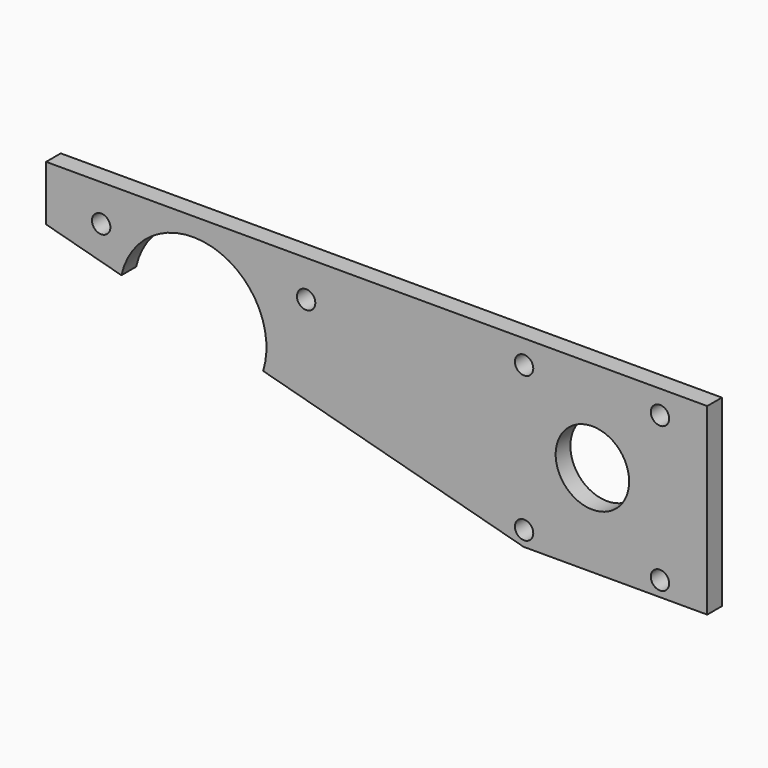
from build123d import *

# Parameters (mm, degrees)
F0_R     = 3.175
F0_R_2   = 12.7
F1_DEPTH = 6.35


with BuildPart() as f1:
    # F0 (on Front) → F1 (new body)
    with BuildSketch(Plane.XZ):
        with BuildLine():
            Line((177.8, 31.75), (-50.8, 31.75))
            Line((-50.8, 31.75), (-50.8, 12.7))
            Line((-50.8, 12.7), (-24.754961, 5.687874))
            ThreePointArc((-24.754961, 5.687874), (6.603326, 24.52664), (24.264478, -7.509667))
            Line((24.264478, -7.509667), (114.3, -31.75))
            Line((114.3, -31.75), (177.8, -31.75))
            Line((177.8, -31.75), (177.8, 31.75))
        make_face()
        with Locations((114.4778, -26.543)):
            Circle(F0_R, mode=Mode.SUBTRACT)
        with Locations((161.4678, -26.543)):
            Circle(F0_R, mode=Mode.SUBTRACT)
        with Locations((-31.75, 19.05)):
            Circle(F0_R, mode=Mode.SUBTRACT)
        with Locations((39.116, 19.05)):
            Circle(F0_R, mode=Mode.SUBTRACT)
        with Locations((138.0998, 0)):
            Circle(F0_R_2, mode=Mode.SUBTRACT)
        with Locations((114.4778, 23.622)):
            Circle(F0_R, mode=Mode.SUBTRACT)
        with Locations((161.4678, 23.622)):
            Circle(F0_R, mode=Mode.SUBTRACT)
    extrude(amount=F1_DEPTH)


solid = f1.part
